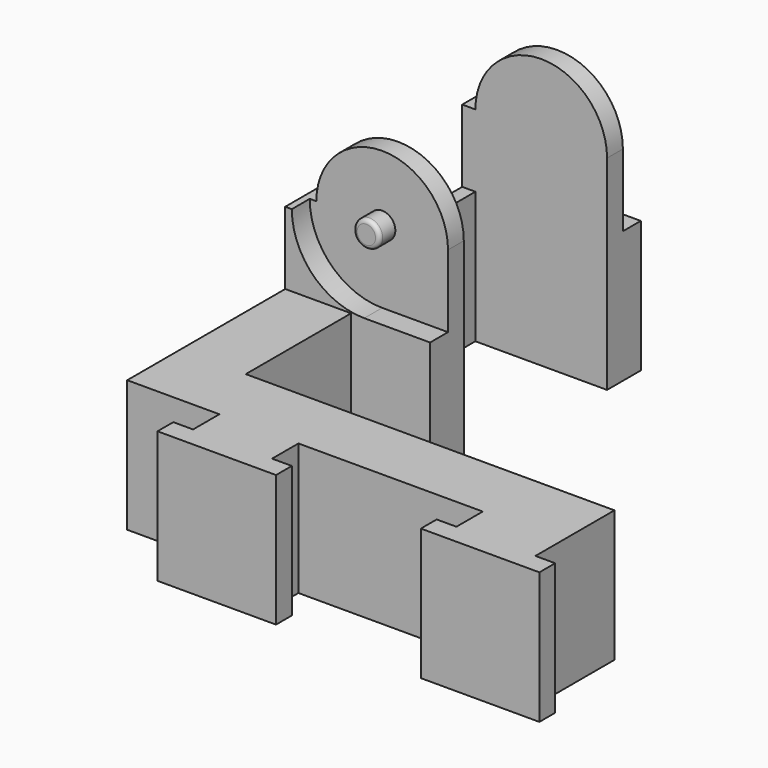
from build123d import *

# Parameters (mm, degrees)
PAD_DEPTH       = 20.5
SKETCH003_W     = 34.5
SKETCH003_H     = 9
POCKET_DEPTH    = 10.5
POCKET001_DEPTH = 20
SKETCH018_W     = 13.6
SKETCH018_H     = 20.5
POCKET002_DEPTH = 10
SKETCH019_W     = 11
SKETCH019_H     = 10
POCKET003_DEPTH = 10.5
SKETCH020_W     = 6
SKETCH020_H     = 10
POCKET004_DEPTH = 10
SKETCH021_R     = 5.5
POCKET005_DEPTH = 1.7
SKETCH022_W     = 5
SKETCH022_H     = 5.5
POCKET006_DEPTH = 1.7
SKETCH023_R     = 5.5
POCKET007_DEPTH = 1.7
SKETCH024_W     = 5
SKETCH024_H     = 5.5
POCKET008_DEPTH = 1.7
SKETCH025_W     = 13.6
SKETCH025_H     = 5.500002
POCKET009_DEPTH = 1
SKETCH026_R     = 1
PAD001_DEPTH    = 1.5
FILLET_R        = 0.3
SKETCH027_R     = 1
PAD002_DEPTH    = 1.5
FILLET001_R     = 0.3


with BuildPart() as part:
    # Sketch → Pad (new body)
    with BuildSketch(Plane.XY):
        Polygon((13, 0), (13, -2.5), (14.5, -2.5), (14.5, -4), (5.5, -4), (5.5, -2.5), (7, -2.5), (7, 0), (-7, 0), (-7, -2.5), (-5.5, -2.5), (-5.5, -4), (-14.5, -4), (-14.5, -2.5), (-13, -2.5), (-13, 0), (-20, 0), (-20, 35), (-9, 35), (-9, 5), (13, 5), align=None)
    extrude(amount=PAD_DEPTH)

    # Sketch003 (on Face23 of Pad) → Pocket (cut)
    with BuildSketch(Plane.XY.offset(20.5)):
        with Locations((-2.75, 0.5)):
            Rectangle(SKETCH003_W, SKETCH003_H)
    extrude(amount=-POCKET_DEPTH, mode=Mode.SUBTRACT)

    # Sketch001 (on Face18 of Pad) → Pocket001 (cut)
    with BuildSketch(Plane(origin=(0, 35, 0), x_dir=(-1, 0, 0), z_dir=(0, 1, 0))):
        with BuildLine():
            ThreePointArc((19, 15.500002), (13.999998, 20.5), (9, 15.499998))
            Line((9, 21.5), (9, 15.499998))
            Line((9, 21.5), (20, 21.5))
            Line((20, 21.5), (20, 15.500002))
            Line((19, 15.500002), (20, 15.500002))
        make_face()
    extrude(amount=-POCKET001_DEPTH, mode=Mode.SUBTRACT)

    # Sketch018 (on Face22 of Pocket001) → Pocket002 (cut)
    with BuildSketch(Plane.YZ.offset(-9)):
        with Locations((25, 10.25)):
            Rectangle(SKETCH018_W, SKETCH018_H)
    extrude(amount=-POCKET002_DEPTH, mode=Mode.SUBTRACT)

    # Sketch019 (on Face29 of Pocket002) → Pocket003 (cut)
    with BuildSketch(Plane.XY.offset(20.5)):
        with Locations((-14.5, 10)):
            Rectangle(SKETCH019_W, SKETCH019_H)
    extrude(amount=-POCKET003_DEPTH, mode=Mode.SUBTRACT)

    # Sketch020 (on Face28 of Pocket003) → Pocket004 (cut)
    with BuildSketch(Plane.XY.offset(10)):
        with Locations((-12, 10)):
            Rectangle(SKETCH020_W, SKETCH020_H)
    extrude(amount=-POCKET004_DEPTH, mode=Mode.SUBTRACT)

    # Sketch021 (on Face15 of Pocket004) → Pocket005 (cut)
    with BuildSketch(Plane(origin=(0, 35, 0), x_dir=(-1, 0, 0), z_dir=(0, 1, 0))):
        with Locations((14, 15.5)):
            Circle(SKETCH021_R)
    extrude(amount=-POCKET005_DEPTH, mode=Mode.SUBTRACT)

    # Sketch022 (on Face15 of Pocket005) → Pocket006 (cut)
    with BuildSketch(Plane(origin=(0, 35, 0), x_dir=(-1, 0, 0), z_dir=(0, 1, 0))):
        with Locations((11.5, 12.75)):
            Rectangle(SKETCH022_W, SKETCH022_H)
    extrude(amount=-POCKET006_DEPTH, mode=Mode.SUBTRACT)

    # Sketch023 (on Face32 of Pocket006) → Pocket007 (cut)
    with BuildSketch(Plane.XZ.offset(-15)):
        with Locations((-14, 15.5)):
            Circle(SKETCH023_R)
    extrude(amount=-POCKET007_DEPTH, mode=Mode.SUBTRACT)

    # Sketch024 (on Face33 of Pocket007) → Pocket008 (cut)
    with BuildSketch(Plane.XZ.offset(-15)):
        with Locations((-11.5, 12.75)):
            Rectangle(SKETCH024_W, SKETCH024_H)
    extrude(amount=-POCKET008_DEPTH, mode=Mode.SUBTRACT)

    # Sketch025 (on Face12 of Pocket008) → Pocket009 (cut)
    with BuildSketch(Plane.YZ.offset(-19)):
        with Locations((25, 12.750001)):
            Rectangle(SKETCH025_W, SKETCH025_H)
    extrude(amount=-POCKET009_DEPTH, mode=Mode.SUBTRACT)

    # Sketch026 (on Face51 of Pocket009) → Pad001 (join)
    with BuildSketch(Plane.XZ.offset(-16.7)):
        with Locations((-14, 15.5)):
            Circle(SKETCH026_R)
    extrude(amount=PAD001_DEPTH)

    # Fillet
    fillet_edges = [part.edges().sort_by_distance(p)[0] for p in [
        (-15, 15.2, 15.5),
    ]]
    fillet(fillet_edges, radius=FILLET_R)

    # Sketch027 (on Face55 of Fillet) → Pad002 (join)
    with BuildSketch(Plane(origin=(0, 33.3, 0), x_dir=(-1, 0, 0), z_dir=(0, 1, 0))):
        with Locations((14, 15.5)):
            Circle(SKETCH027_R)
    extrude(amount=PAD002_DEPTH)

    # Fillet001
    fillet001_edges = [part.edges().sort_by_distance(p)[0] for p in [
        (-13, 34.8, 15.5),
    ]]
    fillet(fillet001_edges, radius=FILLET001_R)


solid = part.part
